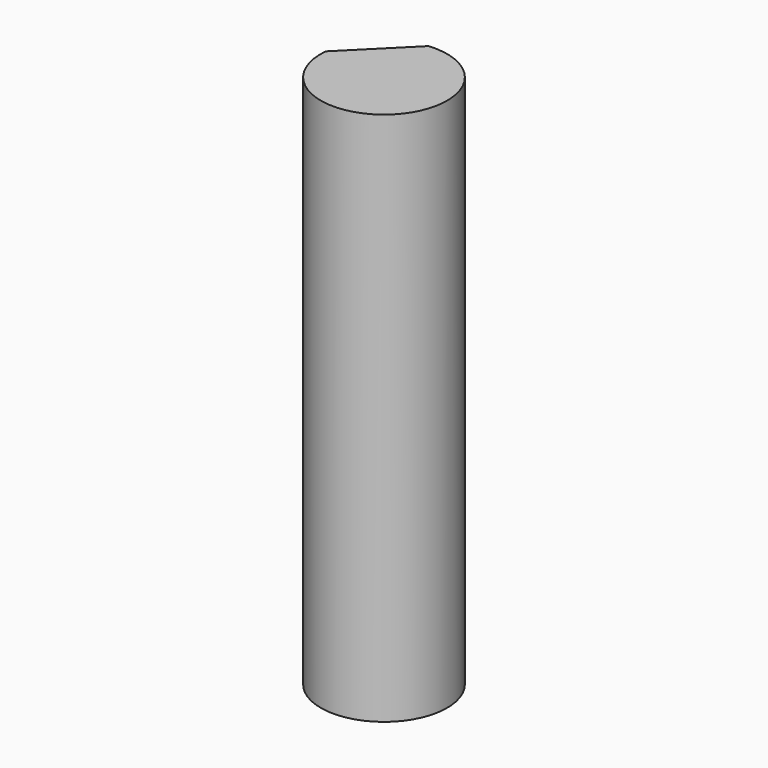
from build123d import *

# Parameters (mm, degrees)
BOX_W               = 10
BOX_H               = 10
BOX_DEPTH           = 30
CYLINDER_R          = 2.6
CYLINDER_DEPTH      = 22
CUT_PLACEMENT_ANGLE = 45


with BuildPart() as cube:
    # Box → Box (new body)
    with BuildSketch(Plane(origin=(-5, 2, -1), x_dir=(1, 0, 0), z_dir=(0, 0, 1))):
        with Locations((5, 5)):
            Rectangle(BOX_W, BOX_H)
    extrude(amount=BOX_DEPTH)


with BuildPart() as motor_shaft:
    # Cylinder → Cylinder (new body)
    with BuildSketch(Plane.XY):
        Circle(CYLINDER_R)
    extrude(amount=CYLINDER_DEPTH)

    # Cut: cut Cube
    add(cube.part, mode=Mode.SUBTRACT)


with BuildPart() as motor_shaft_1:
    # Cut placement: moved
    add(motor_shaft.part.rotate(Axis((0, 0, 0), (0, 0, 1)), CUT_PLACEMENT_ANGLE))


solid = motor_shaft_1.part
